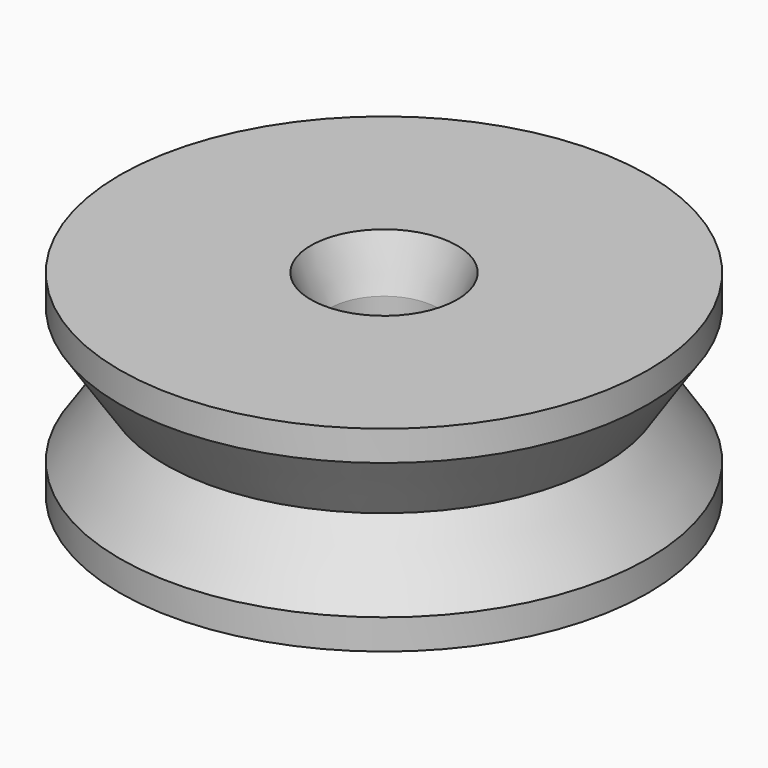
from build123d import *

# Parameters (mm, degrees)
F0_R     = 17.5
F0_R_2   = 3.6
F1_DEPTH = 13
F4_SIZE2 = 1.25
F4_SIZE  = 3.25


with BuildPart() as f1:
    # F0 (on Top) → F1 (new body)
    with BuildSketch(Plane.XY):
        Circle(F0_R)
        Circle(F0_R_2, mode=Mode.SUBTRACT)
    extrude(amount=F1_DEPTH)

    # F2 (on Front) → F3 (revolve, cut)
    with BuildSketch(Plane.XZ):
        Polygon((17.5, 2), (17.5, 11), (14.5, 6.5113911405), align=None)
    revolve(axis=Axis((0, 0, 0), (0, 0, 1)), mode=Mode.SUBTRACT)

    # F4
    f4_edges = [f1.edges().sort_by_distance(p)[0] for p in [
        (-3.6, 0, 13),
        (-3.6, 0, 0),
    ]]
    f4_side = f1.faces().sort_by_distance((-3.6, 0, 6.5))[0]
    chamfer(f4_edges, length=F4_SIZE, length2=F4_SIZE2, reference=f4_side)


solid = f1.part
